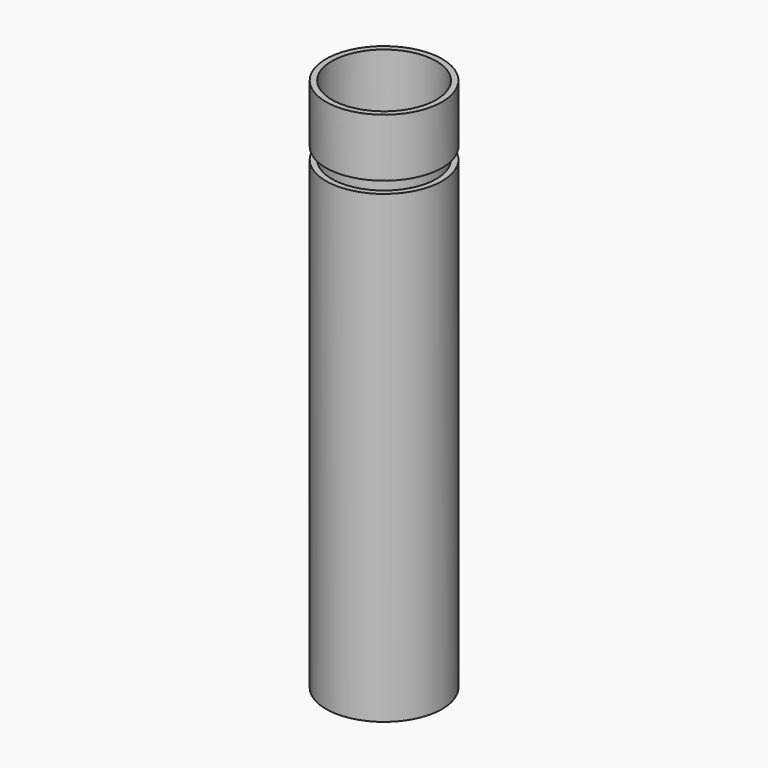
from build123d import *

# Parameters (mm, degrees)
F0_R     = 5
F1_DEPTH = 40
F2_R     = 4.5
F3_DEPTH = 1
F4_R     = 5
F4_R_2   = 4.5
F5_DEPTH = 5


with BuildPart() as f1:
    # F0 (on Top) → F1 (new body)
    with BuildSketch(Plane.XY):
        Circle(F0_R)
    extrude(amount=F1_DEPTH)

    # F2 (on face) → F3 (join)
    with BuildSketch(Plane.XY.offset(40)):
        Circle(F2_R)
    extrude(amount=F3_DEPTH)


with BuildPart() as f5:
    # F4 (on face) → F5 (new body)
    with BuildSketch(Plane.XY.offset(41)):
        Circle(F4_R)
        Circle(F4_R_2, mode=Mode.SUBTRACT)
    extrude(amount=F5_DEPTH)


solid = Compound([f1.part, f5.part])
